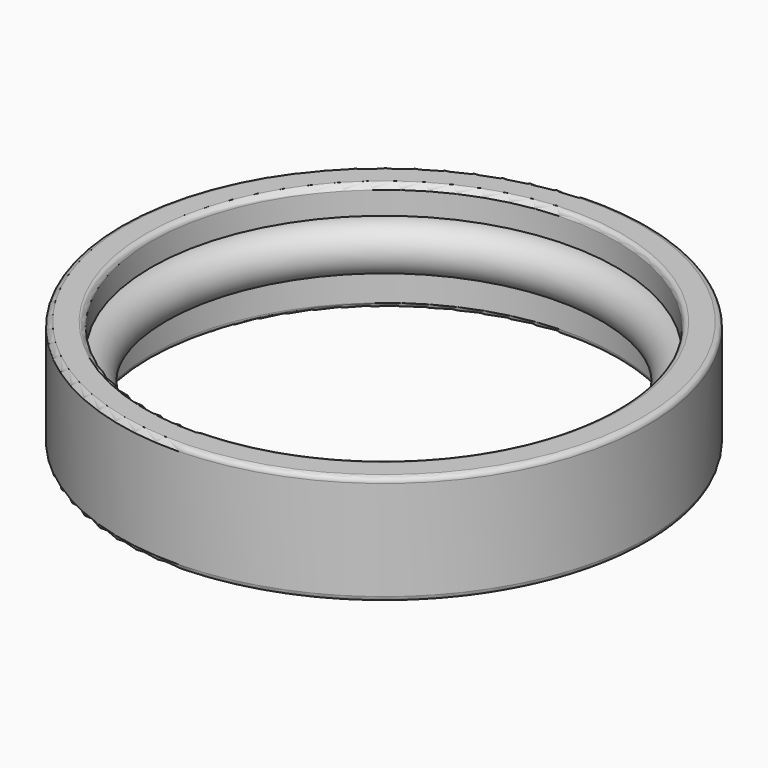
from build123d import *


with BuildPart() as f2:
    # F1 (on Front) → F2 (revolve)
    with BuildSketch(Plane.XZ):
        with BuildLine():
            Line((-22.4674008148, 2.3), (-22.4674008148, -2.3))
            ThreePointArc((-22.4674008148, -2.3), (-20.1674008148, 0), (-22.4674008148, 2.3))
        make_face()
        with BuildLine():
            Line((-22.4674008148, -5.0965931537), (-22.4674008148, -2.3))
            Line((-22.4674008148, -2.3), (-22.4674008148, 2.3))
            Line((-22.4674008148, 2.3), (-22.4674008148, 4.5))
            ThreePointArc((-22.4674008148, 4.5), (-22.6138474242, 4.8535533906), (-22.9674008148, 5))
            Line((-22.9674008148, 5), (-24.9674008148, 5))
            ThreePointArc((-24.9674008148, 5), (-25.3209542054, 4.8535533906), (-25.4674008148, 4.5))
            Line((-25.4674008148, 4.5), (-25.4674008148, -5.0965931537))
            ThreePointArc((-25.4674008148, -5.0965931537), (-25.3209542054, -5.4501465443), (-24.9674008148, -5.5965931537))
            Line((-24.9674008148, -5.5965931537), (-22.9674008148, -5.5965931537))
            ThreePointArc((-22.9674008148, -5.5965931537), (-22.6138474242, -5.4501465443), (-22.4674008148, -5.0965931537))
        make_face()
    revolve(axis=Axis((0, 0, 0), (0, 0, 1)))


solid = f2.part
